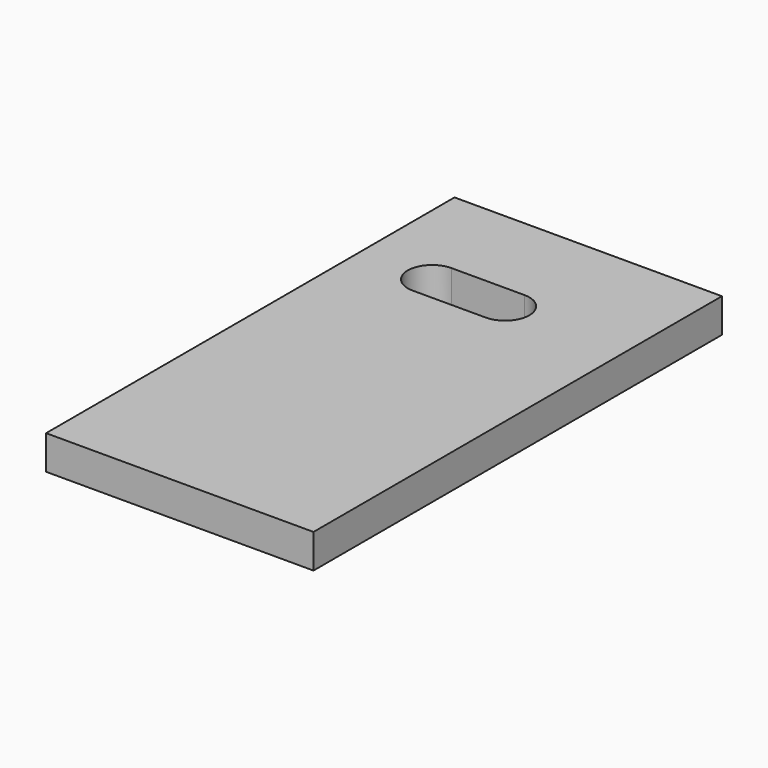
from build123d import *

# Parameters (mm, degrees)
EXTRUDE007_DEPTH = 7
BOX119_W         = 7
BOX119_H         = 105
BOX119_DEPTH     = 55


with BuildPart() as wirecut004:
    # Sketch018 (on Face1 of Box119) → Extrude007 (new body)
    with BuildSketch(Plane(origin=(340, 25, 107), x_dir=(0, -1, 0), z_dir=(0, 0, 1))):
        with BuildLine():
            ThreePointArc((-75.5, 30), (-80.5, 35), (-85.5, 30))
            Line((-85.5, 30), (-85.5, 15))
            ThreePointArc((-85.5, 15), (-80.5, 10), (-75.5, 15))
            Line((-75.5, 30), (-75.5, 15))
        make_face()
    extrude(amount=-EXTRUDE007_DEPTH)


with BuildPart() as cut019:
    # Box119 → Box119 (new body)
    with BuildSketch(Plane(origin=(340, 25, 107), x_dir=(0, 0, -1), z_dir=(1, 0, 0))):
        with Locations((3.5, 52.5)):
            Rectangle(BOX119_W, BOX119_H)
    extrude(amount=BOX119_DEPTH)

    # Cut019: cut Wirecut004
    add(wirecut004.part, mode=Mode.SUBTRACT)


solid = cut019.part
